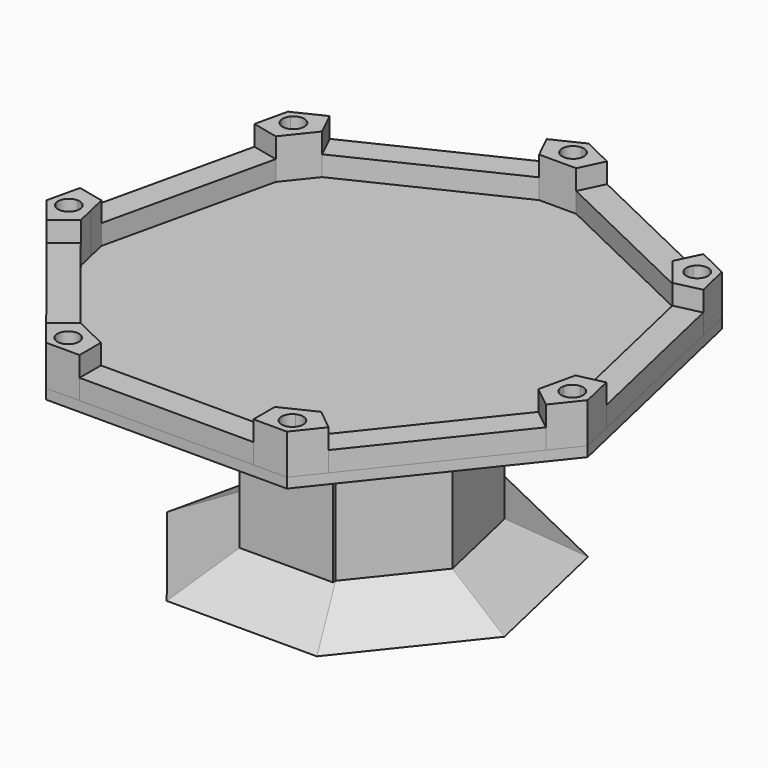
from build123d import *

# Parameters (mm, degrees)
F1_DEPTH  = 38.1
F4_DEPTH  = 152.4
F5_DEPTH  = 152.4
F6_DEPTH  = 152.4
F7_DEPTH  = 152.4
F8_DEPTH  = 152.4
F9_DEPTH  = 152.4
F10_DEPTH = 152.4
F11_DEPTH = 76.2
F3_W      = 660.4
F3_H      = 101.6
F22_DEPTH = 69.85
F24_DEPTH = 69.85
F26_DEPTH = 69.85
F28_DEPTH = 69.85
F30_DEPTH = 69.85
F32_DEPTH = 69.85
F34_DEPTH = 69.85
F35_DEPTH = 25.4
F37_DEPTH = 330.2
F39_DEPTH = 25.4
F40_W     = 152.3317144976
F40_H     = 165.1
F41_DEPTH = 25.4
F42_DEPTH = 12.7


with BuildPart() as f1:
    # F0 (on Top) → F1 (new body)
    with BuildSketch(Plane.XY):
        Polygon((-457.2, -949.3855825129), (457.2, -949.3855825129), (1027.3190748196, -234.4788749441), (823.84593281, 656.995207955), (0, 1053.738499004), (-823.84593281, 656.995207955), (-1027.3190748196, -234.4788749441), align=None)
    extrude(amount=F1_DEPTH)


with BuildPart() as f4:
    # F3 (on face) → F4 (new body)
    with BuildSketch(Plane.XY.offset(38.1)):
        Polygon((330.2, -847.7855825129), (330.2, -949.3855825129), (457.2, -949.3855825129), (393.5745631087, -817.2660014417), align=None)
        Polygon((393.5745631087, -817.2660014417), (457.2, -949.3855825129), (536.3832048361, -850.0929842394), (456.9491262173, -786.7464203706), align=None)
    extrude(amount=F4_DEPTH)

    # F25 (on face) → F26 (cut)
    with BuildSketch(Plane.XY.offset(190.5)):
        with BuildLine():
            Line((455.9054730683, -855.5361246221), (425.3872815543, -883.3257919773))
            Line((425.3872815543, -883.3257919773), (443.2958328864, -920.513282))
            ThreePointArc((443.2958328864, -920.513282), (460.3358228775, -905.2854159355), (466.6622815543, -883.3257919773))
            ThreePointArc((466.6622815543, -883.3257919773), (463.879254612, -868.4263411441), (455.9054730683, -855.5361246221))
        make_face()
        with BuildLine():
            Line((443.2958328864, -920.513282), (425.3872815543, -883.3257919773))
            Line((425.3872815543, -883.3257919773), (384.6326635485, -889.8593006979))
            ThreePointArc((384.6326635485, -889.8593006979), (406.2717817431, -919.9075263808), (443.2958328864, -920.513282))
        make_face()
        with BuildLine():
            ThreePointArc((455.9054730683, -855.5361246221), (433.2505203337, -842.8067211476), (407.4787302223, -846.1383019546))
            Line((407.4787302222, -846.1383019546), (425.3872815543, -883.3257919773))
            Line((425.3872815543, -883.3257919773), (455.9054730683, -855.5361246221))
        make_face()
        with BuildLine():
            Line((425.3872815543, -883.3257919773), (407.4787302222, -846.1383019546))
            ThreePointArc((407.4787302223, -846.1383019546), (388.8055471508, -864.2102921661), (384.6326635485, -889.8593006979))
            Line((384.6326635485, -889.8593006979), (425.3872815543, -883.3257919773))
        make_face()
    extrude(amount=-F26_DEPTH, mode=Mode.SUBTRACT)


with BuildPart() as f5:
    # F3 (on face) → F5 (new body)
    with BuildSketch(Plane.XY.offset(38.1)):
        Polygon((-536.3832048361, -850.0929842394), (-457.2, -949.3855825129), (-393.5745631087, -817.2660014417), (-456.9491262173, -786.7464203706), align=None)
        Polygon((-457.2, -949.3855825129), (-330.2, -949.3855825129), (-330.2, -847.7855825129), (-393.5745631087, -817.2660014417), align=None)
    extrude(amount=F5_DEPTH)

    # F23 (on face) → F24 (cut)
    with BuildSketch(Plane.XY.offset(190.5)):
        with BuildLine():
            Line((-407.756526749, -846.7151523863), (-425.6650780811, -883.9026424089))
            Line((-425.6650780811, -883.9026424089), (-384.8697797233, -890.1771349705))
            ThreePointArc((-384.8697797233, -890.1771349705), (-384.5101782226, -887.0490439476), (-384.3900780811, -883.9026424089))
            ThreePointArc((-384.3900780811, -883.9026424089), (-390.7165367579, -861.9430184508), (-407.756526749, -846.7151523863))
        make_face()
        with BuildLine():
            Line((-425.6650780811, -883.9026424089), (-443.5736294131, -921.0901324316))
            ThreePointArc((-443.5736294131, -921.0901324316), (-406.4334855739, -920.4234785801), (-384.8697797233, -890.1771349705))
            Line((-384.8697797233, -890.1771349705), (-425.6650780811, -883.9026424089))
        make_face()
        with BuildLine():
            ThreePointArc((-456.006126392, -855.9196759402), (-466.2089193674, -891.6371468369), (-443.5736294131, -921.0901324316))
            Line((-443.5736294131, -921.0901324316), (-425.6650780811, -883.9026424089))
            Line((-425.6650780811, -883.9026424089), (-456.006126392, -855.9196759402))
        make_face()
        with BuildLine():
            Line((-456.006126392, -855.9196759402), (-425.6650780811, -883.9026424089))
            Line((-425.6650780811, -883.9026424089), (-407.756526749, -846.7151523863))
            ThreePointArc((-407.756526749, -846.7151523863), (-433.399582509, -843.3588011226), (-456.006126392, -855.9196759402))
        make_face()
    extrude(amount=-F24_DEPTH, mode=Mode.SUBTRACT)


with BuildPart() as f6:
    # F3 (on face) → F6 (new body)
    with BuildSketch(Plane.XY.offset(38.1)):
        Polygon((900.0062403295, -133.271156987), (884.3540158472, -201.8480331678), (1027.3190748196, -234.4788749441), (999.0589162072, -110.663030097), align=None)
        Polygon((868.7017913648, -270.4249093487), (948.1358699836, -333.7714732175), (1027.3190748196, -234.4788749441), (884.3540158472, -201.8480331678), align=None)
    extrude(amount=F6_DEPTH)

    # F27 (on face) → F28 (cut)
    with BuildSketch(Plane.XY.offset(190.5)):
        with BuildLine():
            Line((955.8365453334, -218.163454056), (915.5963957581, -208.9789025069))
            ThreePointArc((915.5963957581, -208.9789025069), (918.083107443, -234.8458865062), (935.5345594369, -254.1002735265))
            Line((935.5345594369, -254.1002735265), (955.8365453334, -218.163454056))
        make_face()
        with BuildLine():
            Line((996.0766949087, -227.348005605), (955.8365453334, -218.163454056))
            Line((955.8365453334, -218.163454056), (935.5345594369, -254.1002735265))
            ThreePointArc((935.5345594369, -254.1002735265), (972.5189777836, -255.9168919464), (996.0766949087, -227.348005605))
        make_face()
        with BuildLine():
            Line((953.1374896879, -176.9767969493), (955.8365453334, -218.163454056))
            Line((955.8365453334, -218.163454056), (996.0766949087, -227.348005605))
            ThreePointArc((996.0766949087, -227.348005605), (996.8520167967, -222.7847878071), (997.1115453334, -218.163454056))
            ThreePointArc((997.1115453334, -218.163454056), (984.0519852842, -188.0384715102), (953.1374896879, -176.9767969493))
        make_face()
        with BuildLine():
            ThreePointArc((953.1374896879, -176.9767969493), (929.0601093069, -186.752498981), (915.5963957581, -208.9789025069))
            Line((915.5963957581, -208.9789025069), (955.8365453334, -218.163454056))
            Line((955.8365453334, -218.163454056), (953.1374896879, -176.9767969493))
        make_face()
    extrude(amount=-F28_DEPTH, mode=Mode.SUBTRACT)


with BuildPart() as f7:
    # F3 (on face) → F7 (new body)
    with BuildSketch(Plane.XY.offset(38.1)):
        Polygon((-1027.3190748196, -234.4788749441), (-884.3540158472, -201.8480331678), (-900.0062403295, -133.271156987), (-999.0589162072, -110.663030097), align=None)
        Polygon((-1027.3190748196, -234.4788749441), (-948.1358699836, -333.7714732175), (-868.7017913648, -270.4249093487), (-884.3540158472, -201.8480331678), align=None)
    extrude(amount=F7_DEPTH)

    # F21 (on face) → F22 (cut)
    with BuildSketch(Plane.XY.offset(190.5)):
        with BuildLine():
            ThreePointArc((-953.1374896879, -176.9767969493), (-987.2475004084, -191.3870180295), (-996.0766949087, -227.348005605))
            Line((-996.0766949087, -227.348005605), (-955.8365453334, -218.163454056))
            Line((-955.8365453334, -218.163454056), (-953.1374896879, -176.9767969493))
        make_face()
        with BuildLine():
            Line((-955.8365453334, -218.163454056), (-996.0766949087, -227.348005605))
            ThreePointArc((-996.0766949087, -227.348005605), (-972.5189777836, -255.9168919464), (-935.5345594369, -254.1002735265))
            Line((-935.5345594369, -254.1002735265), (-955.8365453334, -218.163454056))
        make_face()
        with BuildLine():
            Line((-953.1374896879, -176.9767969493), (-955.8365453334, -218.163454056))
            Line((-955.8365453334, -218.163454056), (-915.5963957581, -208.9789025069))
            ThreePointArc((-915.5963957581, -208.9789025069), (-929.0601093069, -186.752498981), (-953.1374896879, -176.9767969493))
        make_face()
        with BuildLine():
            Line((-915.5963957581, -208.9789025069), (-955.8365453334, -218.163454056))
            Line((-955.8365453334, -218.163454056), (-935.5345594369, -254.1002735265))
            ThreePointArc((-935.5345594369, -254.1002735265), (-920.1883329457, -238.968034767), (-914.5615453334, -218.163454056))
            ThreePointArc((-914.5615453334, -218.163454056), (-914.82107387, -213.5421203048), (-915.5963957581, -208.9789025069))
        make_face()
    extrude(amount=-F22_DEPTH, mode=Mode.SUBTRACT)


with BuildPart() as f8:
    # F3 (on face) → F8 (new body)
    with BuildSketch(Plane.XY.offset(38.1)):
        Polygon((-823.84593281, 656.995207955), (-709.1968571184, 565.5656210309), (-665.340298692, 620.560005844), (-709.4228865864, 712.0984428229), align=None)
        Polygon((-852.1060914224, 533.1793631079), (-753.0534155448, 510.5712362179), (-709.1968571184, 565.5656210309), (-823.84593281, 656.995207955), align=None)
    extrude(amount=F8_DEPTH)

    # F33 (on face) → F34 (cut)
    with BuildSketch(Plane.XY.offset(190.5)):
        with BuildLine():
            Line((-798.791489403, 637.0149560647), (-766.5213949642, 611.280414493))
            Line((-766.5213949642, 611.280414493), (-732.637536111, 634.849668495))
            ThreePointArc((-732.637536111, 634.849668495), (-765.1711444463, 652.5333228576), (-798.791489403, 637.0149560647))
        make_face()
        with BuildLine():
            Line((-781.9598506421, 573.0014423113), (-766.5213949642, 611.280414493))
            Line((-766.5213949642, 611.280414493), (-798.791489403, 637.0149560647))
            ThreePointArc((-798.791489403, 637.0149560647), (-806.4395477812, 600.7843818769), (-781.9598506421, 573.0014423113))
        make_face()
        with BuildLine():
            ThreePointArc((-781.9598506421, 573.0014423113), (-756.0253623481, 571.3622616759), (-734.2513005253, 585.5458729212))
            Line((-734.2513005253, 585.5458729212), (-766.5213949642, 611.280414493))
            Line((-766.5213949642, 611.280414493), (-781.9598506421, 573.0014423113))
        make_face()
        with BuildLine():
            Line((-766.5213949642, 611.280414493), (-734.2513005253, 585.5458729212))
            ThreePointArc((-734.2513005253, 585.5458729212), (-727.5626105057, 597.6481462108), (-725.2463949642, 611.280414493))
            ThreePointArc((-725.2463949642, 611.280414493), (-727.1375029576, 623.630907415), (-732.637536111, 634.849668495))
            Line((-732.637536111, 634.849668495), (-766.5213949642, 611.280414493))
        make_face()
    extrude(amount=-F34_DEPTH, mode=Mode.SUBTRACT)


with BuildPart() as f9:
    # F3 (on face) → F9 (new body)
    with BuildSketch(Plane.XY.offset(38.1)):
        Polygon((665.340298692, 620.560005844), (709.1968571184, 565.5656210309), (823.84593281, 656.995207955), (709.4228865864, 712.0984428229), align=None)
        Polygon((709.1968571184, 565.5656210309), (753.0534155447, 510.5712362179), (852.1060914224, 533.1793631079), (823.84593281, 656.995207955), align=None)
    extrude(amount=F9_DEPTH)

    # F29 (on face) → F30 (cut)
    with BuildSketch(Plane.XY.offset(190.5)):
        with BuildLine():
            Line((732.637536111, 634.849668495), (766.5213949642, 611.280414493))
            Line((766.5213949642, 611.280414493), (798.791489403, 637.0149560647))
            ThreePointArc((798.791489403, 637.0149560647), (765.1711444463, 652.5333228576), (732.637536111, 634.849668495))
        make_face()
        with BuildLine():
            ThreePointArc((732.637536111, 634.849668495), (725.2684865996, 609.9301639751), (734.2513005253, 585.5458729212))
            Line((734.2513005253, 585.5458729212), (766.5213949642, 611.280414493))
            Line((766.5213949642, 611.280414493), (732.637536111, 634.849668495))
        make_face()
        with BuildLine():
            Line((766.5213949642, 611.280414493), (734.2513005253, 585.5458729212))
            ThreePointArc((734.2513005253, 585.5458729212), (756.0253623481, 571.3622616759), (781.9598506421, 573.0014423113))
            Line((781.9598506421, 573.0014423113), (766.5213949642, 611.280414493))
        make_face()
        with BuildLine():
            Line((798.791489403, 637.0149560647), (766.5213949642, 611.280414493))
            Line((766.5213949642, 611.280414493), (781.9598506421, 573.0014423113))
            ThreePointArc((781.9598506421, 573.0014423113), (800.7328541782, 588.1892542049), (807.7963949642, 611.280414493))
            ThreePointArc((807.7963949642, 611.280414493), (805.4801794227, 624.9126827752), (798.791489403, 637.0149560647))
        make_face()
    extrude(amount=-F30_DEPTH, mode=Mode.SUBTRACT)


with BuildPart() as f10:
    # F3 (on face) → F10 (new body)
    with BuildSketch(Plane.XY.offset(38.1)):
        Polygon((-70.3404583293, 907.0968271572), (0, 907.0968271572), (0, 1053.738499004), (-114.4230462236, 998.6352641361), align=None)
        Polygon((0, 1053.738499004), (0, 907.0968271572), (70.3404583293, 907.0968271572), (114.4230462236, 998.6352641361), align=None)
    extrude(amount=F10_DEPTH)

    # F31 (on face) → F32 (cut)
    with BuildSketch(Plane.XY.offset(190.5)):
        with BuildLine():
            Line((-39.5534252397, 968.6213849894), (0, 980.4176630806))
            Line((0, 980.4176630806), (0, 1021.6926630806))
            ThreePointArc((0, 1021.6926630806), (-33.0946899307, 1005.0827623789), (-39.5534252397, 968.6213849894))
        make_face()
        with BuildLine():
            ThreePointArc((-39.5534252397, 968.6213849894), (-24.6650992982, 947.32297315), (0, 939.1426630806))
            Line((0, 939.1426630806), (0, 980.4176630806))
            Line((0, 980.4176630806), (-39.5534252397, 968.6213849894))
        make_face()
        with BuildLine():
            Line((0, 980.4176630806), (0, 939.1426630806))
            ThreePointArc((0, 939.1426630806), (24.6650992982, 947.32297315), (39.5534252397, 968.6213849894))
            Line((39.5534252397, 968.6213849894), (0, 980.4176630806))
        make_face()
        with BuildLine():
            Line((0, 1021.6926630806), (0, 980.4176630806))
            Line((0, 980.4176630806), (39.5534252397, 968.6213849894))
            ThreePointArc((39.5534252397, 968.6213849894), (40.8423386437, 974.4570423818), (41.275, 980.4176630806))
            ThreePointArc((41.275, 980.4176630806), (29.1858323935, 1009.6034954741), (0, 1021.6926630806))
        make_face()
    extrude(amount=-F32_DEPTH, mode=Mode.SUBTRACT)


with BuildPart() as f11:
    # F3 (on face) → F11 (new body)
    with BuildSketch(Plane.XY.offset(38.1)):
        Polygon((-709.4228865864, 712.0984428229), (-665.340298692, 620.560005844), (-70.3404583293, 907.0968271572), (-114.4230462236, 998.6352641361), align=None)
    extrude(amount=F11_DEPTH)


with BuildPart() as f11b:
    # F3 (on face) → F11, piece 2 (new body)
    with BuildSketch(Plane.XY.offset(38.1)):
        Polygon((-999.0589162072, -110.663030097), (-900.0062403295, -133.271156987), (-753.0534155448, 510.5712362179), (-852.1060914224, 533.1793631079), align=None)
    extrude(amount=F11_DEPTH)


with BuildPart() as f11c:
    # F3 (on face) → F11, piece 3 (new body)
    with BuildSketch(Plane.XY.offset(38.1)):
        Polygon((-948.1358699836, -333.7714732175), (-536.3832048361, -850.0929842394), (-456.9491262173, -786.7464203706), (-868.7017913648, -270.4249093487), align=None)
    extrude(amount=F11_DEPTH)


with BuildPart() as f11d:
    # F3 (on face) → F11, piece 4 (new body)
    with BuildSketch(Plane.XY.offset(38.1)):
        with Locations((0, -898.5855825129)):
            Rectangle(F3_W, F3_H)
    extrude(amount=F11_DEPTH)


with BuildPart() as f11e:
    # F3 (on face) → F11, piece 5 (new body)
    with BuildSketch(Plane.XY.offset(38.1)):
        Polygon((456.9491262173, -786.7464203706), (536.3832048361, -850.0929842394), (948.1358699836, -333.7714732175), (868.7017913648, -270.4249093487), align=None)
    extrude(amount=F11_DEPTH)


with BuildPart() as f11f:
    # F3 (on face) → F11, piece 6 (new body)
    with BuildSketch(Plane.XY.offset(38.1)):
        Polygon((753.0534155448, 510.5712362179), (900.0062403295, -133.271156987), (999.0589162072, -110.663030097), (852.1060914224, 533.1793631079), align=None)
    extrude(amount=F11_DEPTH)


with BuildPart() as f11g:
    # F3 (on face) → F11, piece 7 (new body)
    with BuildSketch(Plane.XY.offset(38.1)):
        Polygon((70.3404583293, 907.0968271572), (665.340298692, 620.560005844), (709.4228865864, 712.0984428229), (114.4230462236, 998.6352641361), align=None)
    extrude(amount=F11_DEPTH)


with BuildPart() as f19:
    # F12 (on face) → F19 section 0
    with BuildSketch(Plane(origin=(0, 0, 0), x_dir=(1, 0, 0), z_dir=(0, 0, -1))):
        Polygon((457.2, 949.3855825129), (-457.2, 949.3855825129), (-1027.3190748196, 234.4788749441), (-823.84593281, -656.995207955), (0, -1053.738499004), (823.84593281, -656.995207955), (1027.3190748196, 234.4788749441), align=None)
    # F14 (on offset) → F19 section 1
    with BuildSketch(Plane(origin=(0, 0, -254), x_dir=(1, 0, 0), z_dir=(0, 0, -1))):
        Polygon((177.7317144976, 369.0637080037), (-177.7317144976, 369.0637080037), (-399.3595374098, 91.1512083493), (-320.2614832025, -255.400010338), (0, -409.62981203), (320.2614832025, -255.400010338), (399.3595374098, 91.1512083493), align=None)
    loft()

    # F14 (on offset) → F35 (join)
    with BuildSketch(Plane(origin=(0, 0, -254), x_dir=(1, 0, 0), z_dir=(0, 0, -1))):
        Polygon((177.7317144976, 369.0637080037), (-177.7317144976, 369.0637080037), (-399.3595374098, 91.1512083493), (-320.2614832025, -255.400010338), (0, -409.62981203), (320.2614832025, -255.400010338), (399.3595374098, 91.1512083493), align=None)
    extrude(amount=F35_DEPTH)

    # F36 (on face) → F37 (join)
    with BuildSketch(Plane(origin=(0, 0, -279.4), x_dir=(1, 0, 0), z_dir=(0, 0, -1))):
        Polygon((0, 369.0637080037), (-177.7317144976, 369.0637080037), (-399.3595374098, 91.1512083493), (-320.2614832025, -255.400010338), (0, -409.62981203), (320.2614832025, -255.400010338), (399.3595374098, 91.1512083493), (177.7317144976, 369.0637080037), align=None)
        Polygon((-165.4997191799, 343.6637080037), (0, 343.6637080037), (165.4997191799, 343.6637080037), (371.8744934181, 84.8779264148), (298.2201892553, -237.8226649586), (0, -381.4379389199), (-298.2201892553, -237.8226649586), (-371.8744934181, 84.8779264148), align=None, mode=Mode.SUBTRACT)
    extrude(amount=F37_DEPTH)

    # F38 (on face) → F39 (join)
    with BuildSketch(Plane(origin=(0, 0, -609.6), x_dir=(1, 0, 0), z_dir=(0, 0, -1))):
        Polygon((177.7317144976, 369.0637080037), (-177.7317144976, 369.0637080037), (-399.3595374098, 91.1512083493), (-320.2614832025, -255.400010338), (0, -409.62981203), (320.2614832025, -255.400010338), (399.3595374098, 91.1512083493), align=None)
        Polygon((0, -381.4379389199), (-298.2201892553, -237.8226649586), (-371.8744934181, 84.8779264148), (-165.4997191799, 343.6637080037), (165.4997191799, 343.6637080037), (371.8744934181, 84.8779264148), (298.2201892553, -237.8226649586), align=None, mode=Mode.SUBTRACT)
        Polygon((-371.8744934181, 84.8779264148), (-298.2201892553, -237.8226649586), (0, -381.4379389199), (298.2201892553, -237.8226649586), (371.8744934181, 84.8779264148), (165.4997191799, 343.6637080037), (-165.4997191799, 343.6637080037), align=None)
    extrude(amount=F39_DEPTH)

    # F40 (on face) → F41 (cut)
    with BuildSketch(Plane.XZ.offset(369.0637080037)):
        Polygon((152.3317144976, -279.4), (0, -279.4), (0, -444.5), (-152.3317144976, -444.5), (-152.3317144976, -609.6), (152.3317144976, -609.6), align=None)
        with Locations((-76.1658572488, -361.95)):
            Rectangle(F40_W, F40_H)
    extrude(amount=-F41_DEPTH, mode=Mode.SUBTRACT)


with BuildPart() as f20:
    # F16 (on offset) → F20 section 0
    with BuildSketch(Plane(origin=(0, 0, -635), x_dir=(1, 0, 0), z_dir=(0, 0, -1))):
        Polygon((-399.3595374098, 91.1512083493), (-320.2614832025, -255.400010338), (0, -409.62981203), (320.2614832025, -255.400010338), (399.3595374098, 91.1512083493), (177.7317144976, 369.0637080037), (-177.7317144976, 369.0637080037), align=None)
    # F18 (on offset) → F20 section 1
    with BuildSketch(Plane(origin=(0, 0, -762), x_dir=(1, 0, 0), z_dir=(0, 0, -1))):
        Polygon((285.059536355, 591.9322265382), (-285.059536355, 591.9322265382), (-640.522964035, 146.195186738), (-513.6595355092, -409.6298105143), (0, -656.995205524), (513.6595355092, -409.6298105143), (640.522964035, 146.195186738), align=None)
    loft()


with BuildPart() as f42:
    # F40 (on face) → F42 (new body)
    with BuildSketch(Plane.XZ.offset(369.0637080037)):
        Polygon((0, -279.4), (0, -254), (-177.7317144976, -254), (-177.7317144976, -444.5), (-152.3317144976, -444.5), (-152.3317144976, -279.4), align=None)
        with Locations((-76.1658572488, -361.95)):
            Rectangle(F40_W, F40_H)
        Polygon((152.3317144976, -279.4), (0, -279.4), (0, -444.5), (-152.3317144976, -444.5), (-152.3317144976, -609.6), (152.3317144976, -609.6), align=None)
        Polygon((177.7317144976, -635), (177.7317144976, -254), (0, -254), (0, -279.4), (152.3317144976, -279.4), (152.3317144976, -609.6), (-152.3317144976, -609.6), (-152.3317144976, -444.5), (-177.7317144976, -444.5), (-177.7317144976, -635), align=None)
    extrude(amount=F42_DEPTH)


solid = Compound([f1.part, f4.part, f5.part, f6.part, f7.part, f8.part, f9.part, f10.part, f11.part, f11b.part, f11c.part, f11d.part, f11e.part, f11f.part, f11g.part, f19.part, f20.part, f42.part])
